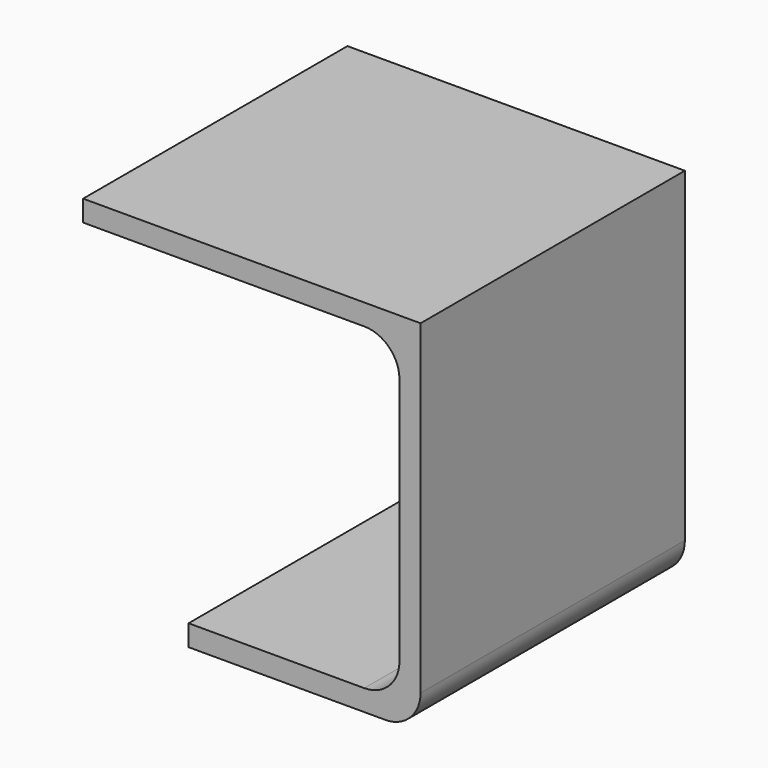
from build123d import *

# Parameters (mm, degrees)
F1_DEPTH  = 47
F2_R      = 5
F3_R      = 5
F1_FACE_W = 47
F1_FACE_H = 3
F4_DEPTH  = 15


with BuildPart() as f1:
    # F0 (on Front) → F1 (new body)
    with BuildSketch(Plane.XZ):
        Polygon((-11.811316, 51.3), (-44.811316, 51.3), (-44.811316, 48.3), (-14.811316, 48.3), (-14.811316, 3), (-44.811316, 3), (-44.811316, 0), (-11.811316, 0), align=None)
    extrude(amount=F1_DEPTH)

    # F2
    f2_edges = [f1.edges().sort_by_distance(p)[0] for p in [
        (-14.811316, -23.5, 3),
        (-14.811316, -23.5, 48.3),
    ]]
    fillet(f2_edges, radius=F2_R)

    # F3
    f3_edges = [f1.edges().sort_by_distance(p)[0] for p in [
        (-11.811316, -23.5, 0),
    ]]
    fillet(f3_edges, radius=F3_R)

    # F1_face (on face) → F4 (join)
    with BuildSketch(Plane(origin=(-44.811316, -23.5, 49.8), x_dir=(0, -1, 0), z_dir=(-1, 0, 0))):
        Rectangle(F1_FACE_W, F1_FACE_H)
    extrude(amount=F4_DEPTH)


solid = f1.part
